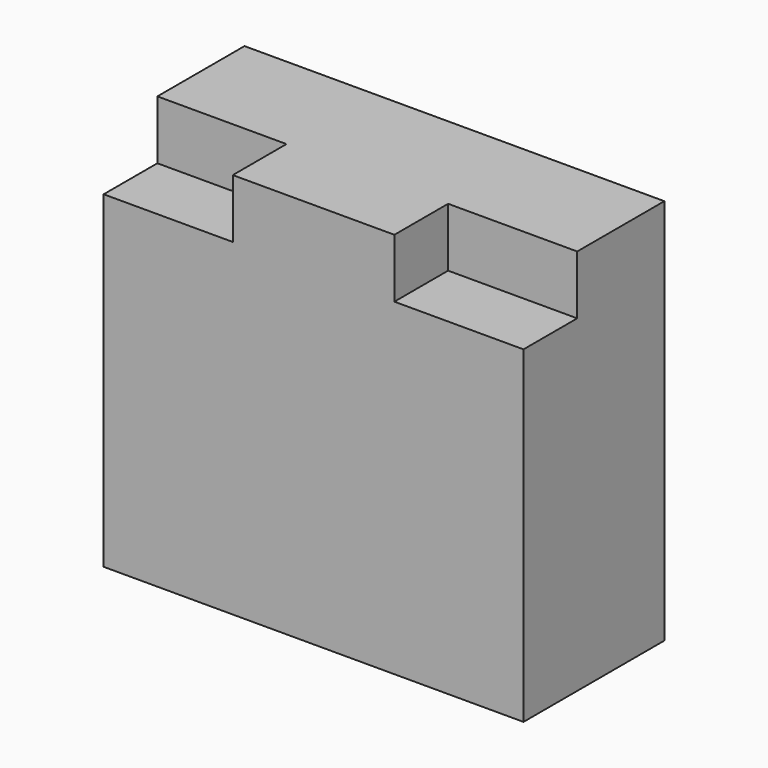
from build123d import *

# Parameters (mm, degrees)
F0_W     = 181.102
F0_H     = 166.878
F1_DEPTH = 75.946
F2_W     = 55.6948
F2_H     = 28.966822
F3_DEPTH = 25.4


with BuildPart() as f1:
    # F0 (on Front) → F1 (new body)
    with BuildSketch(Plane.XZ):
        Rectangle(F0_W, F0_H)
    extrude(amount=F1_DEPTH)

    # F2 (on face) → F3 (cut)
    with BuildSketch(Plane.XY.offset(83.439)):
        with Locations((-62.7036, -61.462589)):
            Rectangle(F2_W, F2_H)
        with Locations((62.7036, -61.462589)):
            Rectangle(F2_W, F2_H)
    extrude(amount=-F3_DEPTH, mode=Mode.SUBTRACT)


solid = f1.part
